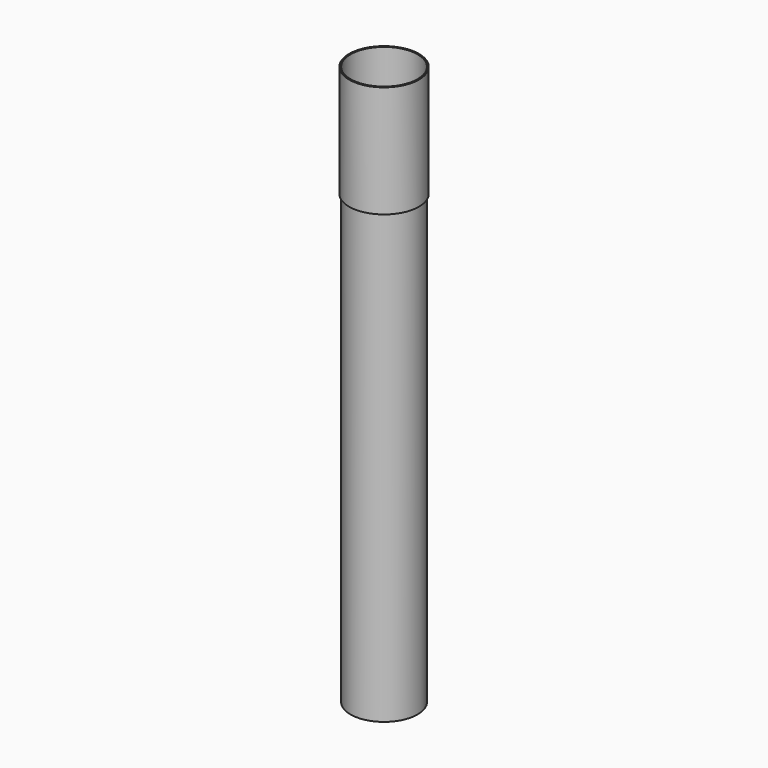
from build123d import *

# Parameters (mm, degrees)
F0_R     = 31.25
F0_R_2   = 30
F1_DEPTH = 100
F2_R     = 30
F2_R_2   = 28.75
F3_DEPTH = 400


with BuildPart() as f1:
    # F0 (on Top) → F1 (new body)
    with BuildSketch(Plane.XY):
        Circle(F0_R)
        Circle(F0_R_2, mode=Mode.SUBTRACT)
    extrude(amount=F1_DEPTH)


with BuildPart() as f3:
    # F2 (on Top) → F3 (new body)
    with BuildSketch(Plane.XY):
        Circle(F2_R)
        Circle(F2_R_2, mode=Mode.SUBTRACT)
    extrude(amount=-F3_DEPTH)


solid = Compound([f1.part, f3.part])
